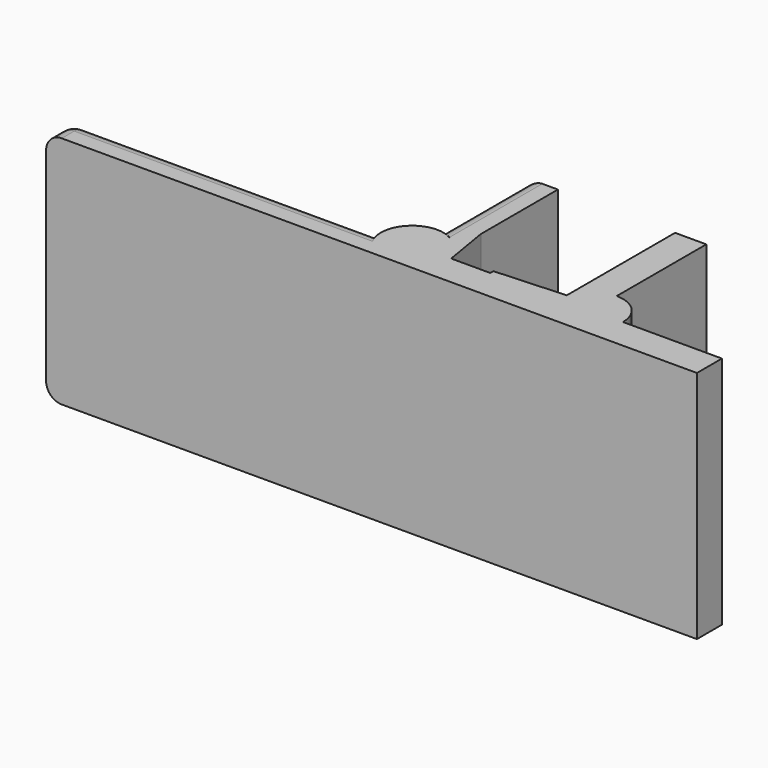
from build123d import *

# Parameters (mm, degrees)
PAD_DEPTH         = 90
FILLET_R          = 6
CYLINDER_R        = 12
CYLINDER_DEPTH    = 90
CYLINDER001_R     = 12
CYLINDER001_DEPTH = 90


with BuildPart() as part:
    # Sketch → Pad (new body)
    with BuildSketch(Plane.XY):
        Polygon((-136.659612, 0), (113.340388, 0), (113.340388, 12), (63.340388, 12), (63.340388, 66.999997), (51.340388, 66.999997), (51.340388, 15), (24.340388, 13.5), (24.340388, 12), (9.340388, 12), (6.340388, 30), (6.340388, 67), (-5.659612, 67), (-5.659612, 12), (-136.659612, 12), align=None)
    extrude(amount=PAD_DEPTH)

    # Fillet
    fillet_edges = [part.edges().sort_by_distance(p)[0] for p in [
        (-136.659612, 12, 45),
        (-71.159612, 12, 90),
        (-71.159612, 12, 0),
        (-5.659612, 67, 45),
        (-5.659612, 39.5, 0),
        (-5.659612, 39.5, 90),
        (-136.659612, 6, 0),
        (-136.659612, 6, 90),
    ]]
    fillet(fillet_edges, radius=FILLET_R)

    # Cylinder → Cylinder (join)
    with BuildSketch(Plane(origin=(-5.659612, 12, 90), x_dir=(-1, 0, 0), z_dir=(0, 0, -1))):
        Circle(CYLINDER_R)
    extrude(amount=CYLINDER_DEPTH)

    # Cylinder001 → Cylinder001 (join)
    with BuildSketch(Plane(origin=(63.340388, 12, 90), x_dir=(-1, 0, 0), z_dir=(0, 0, -1))):
        Circle(CYLINDER001_R)
    extrude(amount=CYLINDER001_DEPTH)


solid = part.part
